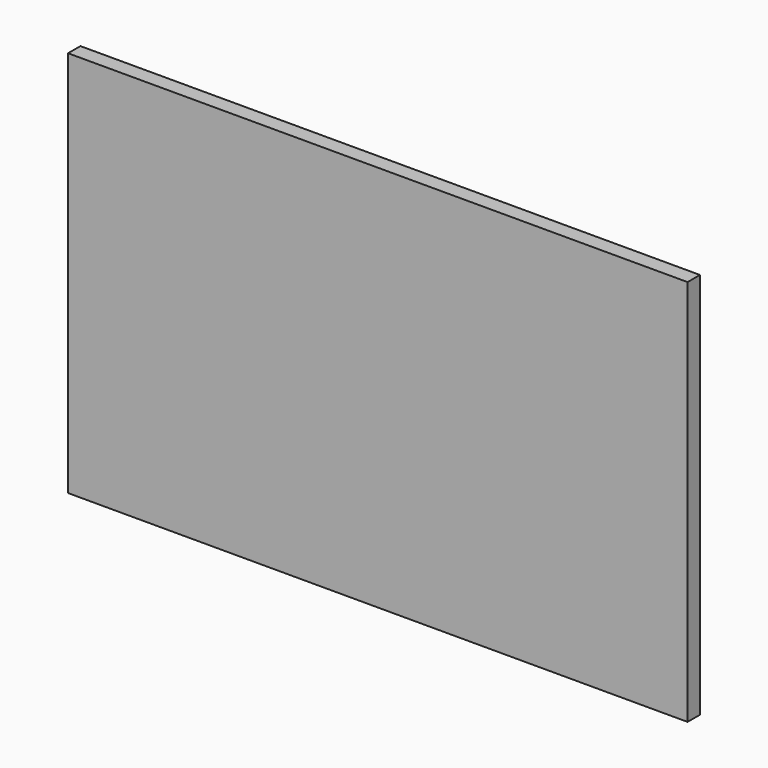
from build123d import *

# Parameters (mm, degrees)
SKETCH_W  = 800
SKETCH_H  = 500
PAD_DEPTH = 20


with BuildPart() as part:
    # Sketch → Pad (new body)
    with BuildSketch(Plane.XZ):
        Rectangle(SKETCH_W, SKETCH_H)
    extrude(amount=PAD_DEPTH)


solid = part.part
